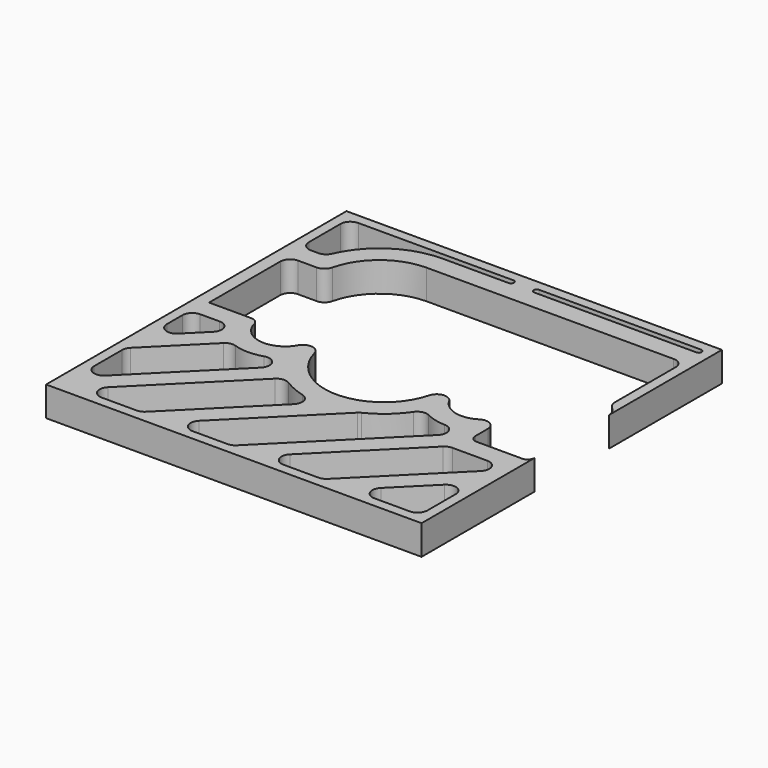
from build123d import *

# Parameters (mm, degrees)
PAD_DEPTH = 1.5


with BuildPart() as part:
    # Sketch → Pad (new body)
    with BuildSketch(Plane.XY):
        with BuildLine():
            ThreePointArc((-2.8995, -0.77), (0, -3), (2.8995, -0.77))
            ThreePointArc((3.819845, -0.65554), (3.321042, -0.402156), (2.8995, -0.77))
            ThreePointArc((3.819845, -0.65554), (4.670792, -1.309245), (5.72973, -1.135779))
            ThreePointArc((6.5, -1.556438), (6.239651, -1.117613), (5.72973, -1.135779))
            Line((6.5, -2.35), (6.5, -1.556438))
            ThreePointArc((6.5, -2.35), (6.602513, -2.597487), (6.85, -2.7))
            Line((6.85, -2.7), (9.15, -2.7))
            ThreePointArc((9.15, -2.7), (9.397487, -2.597487), (9.5, -2.35))
            Line((9.5, -2.35), (9.5, -9.5))
            Line((-9.5, -9.5), (9.5, -9.5))
            Line((-9.5, 9.5), (-9.5, -9.5))
            Line((9.5, 9.5), (-9.5, 9.5))
            Line((9.5, 2.35), (9.5, 9.5))
            ThreePointArc((9.5, 2.35), (9.434288, 2.639872), (9.25, 2.873071))
            ThreePointArc((9, 3.396143), (9.065712, 3.106271), (9.25, 2.873071))
            Line((9, 3.396143), (9, 7.2))
            ThreePointArc((9, 7.2), (8.853553, 7.553553), (8.5, 7.7))
            Line((8.5, 7.7), (-4, 7.7))
            ThreePointArc((-4, 7.7), (-5.863177, 7.051291), (-6.920581, 5.385714))
            ThreePointArc((-7.407345, 5), (-7.096816, 5.108118), (-6.920581, 5.385714))
            Line((-8.35, 5), (-7.407345, 5))
            ThreePointArc((-8.35, 5), (-8.703553, 4.853553), (-8.85, 4.5))
            Line((-8.85, 0), (-8.85, 4.5))
            Line((-8.85, 0), (-6.722884, 0))
            ThreePointArc((-6.310819, -0.322882), (-6.461135, -0.090335), (-6.722884, 0))
            ThreePointArc((-6.310819, -0.322882), (-5.1787, -1.33812), (-3.819845, -0.65554))
            ThreePointArc((-2.8995, -0.77), (-3.321042, -0.402156), (-3.819845, -0.65554))
        make_face()
        with BuildLine():
            Line((-8.146447, -7.43934), (-3.773762, -3.066655))
            ThreePointArc((-3.773762, -3.066655), (-3.70061, -2.452483), (-4.280418, -2.237119))
            ThreePointArc((-5.735884, -2.23181), (-5.008573, -2.349984), (-4.280418, -2.237119))
            ThreePointArc((-5.735884, -2.23181), (-6.008123, -2.220226), (-6.246009, -2.353109))
            Line((-8.853553, -4.960654), (-6.246009, -2.353109))
            ThreePointArc((-8.853553, -4.960654), (-8.96194, -5.122866), (-9, -5.314207))
            Line((-9, -5.314207), (-9, -7.085786))
            ThreePointArc((-9, -7.085786), (-8.691342, -7.547726), (-8.146447, -7.43934))
        make_face(mode=Mode.SUBTRACT)
        with BuildLine():
            Line((-7.43934, -8.146447), (-2.748865, -3.455972))
            ThreePointArc((-2.129166, -3.386245), (-2.451218, -3.312661), (-2.748865, -3.455972))
            ThreePointArc((-2.129166, -3.386245), (-1.598864, -3.666556), (-1.032607, -3.864417))
            ThreePointArc((-0.80813, -4.701023), (-0.678765, -4.217893), (-1.032607, -3.864417))
            Line((-4.96066, -8.853553), (-0.80813, -4.701023))
            ThreePointArc((-5.314214, -9), (-5.122872, -8.96194), (-4.96066, -8.853553))
            Line((-5.314214, -9), (-7.085786, -9))
            ThreePointArc((-7.43934, -8.146447), (-7.547726, -8.691342), (-7.085786, -9))
        make_face(mode=Mode.SUBTRACT)
        with BuildLine():
            Line((-7.51422, -1), (-8.5, -1))
            ThreePointArc((-8.5, -1), (-8.853553, -1.146447), (-9, -1.5))
            Line((-9, -1.5), (-9, -2.48578))
            ThreePointArc((-9, -2.48578), (-8.691342, -2.94772), (-8.146447, -2.839334))
            Line((-8.146447, -2.839334), (-7.160666, -1.853553))
            ThreePointArc((-7.160666, -1.853553), (-7.05228, -1.308658), (-7.51422, -1))
        make_face(mode=Mode.SUBTRACT)
        with BuildLine():
            ThreePointArc((1.748237, -3.597731), (2.611317, -3.03002), (3.300222, -2.260206))
            ThreePointArc((3.938583, -2.096639), (3.588644, -2.058379), (3.300222, -2.260206))
            ThreePointArc((3.938583, -2.096639), (4.428947, -2.279561), (4.947635, -2.349417))
            ThreePointArc((5.290047, -3.202846), (5.400537, -2.66311), (4.947635, -2.349417))
            Line((5.290047, -3.202846), (-0.36066, -8.853553))
            ThreePointArc((-0.714214, -9), (-0.522872, -8.96194), (-0.36066, -8.853553))
            Line((-0.714214, -9), (-2.485786, -9))
            ThreePointArc((-2.83934, -8.146447), (-2.947726, -8.691342), (-2.485786, -9))
            Line((-2.83934, -8.146447), (1.613213, -3.693894))
            ThreePointArc((1.748237, -3.597731), (1.676712, -3.640178), (1.613213, -3.693894))
        make_face(mode=Mode.SUBTRACT)
        with BuildLine():
            ThreePointArc((8.5, -9), (8.853553, -8.853553), (9, -8.5))
            Line((9, -6.714214), (9, -8.5))
            ThreePointArc((9, -6.714214), (8.691342, -6.252274), (8.146447, -6.36066))
            Line((6.36066, -8.146447), (8.146447, -6.36066))
            ThreePointArc((6.36066, -8.146447), (6.252274, -8.691342), (6.714214, -9))
            Line((6.714214, -9), (8.5, -9))
        make_face(mode=Mode.SUBTRACT)
        with BuildLine():
            Line((8.185786, -3.7), (6.414214, -3.7))
            ThreePointArc((6.414214, -3.7), (6.222872, -3.73806), (6.06066, -3.846447))
            Line((6.06066, -3.846447), (1.76066, -8.146447))
            ThreePointArc((1.76066, -8.146447), (1.652274, -8.691342), (2.114214, -9))
            Line((3.885786, -9), (2.114214, -9))
            ThreePointArc((3.885786, -9), (4.077128, -8.96194), (4.23934, -8.853553))
            Line((4.23934, -8.853553), (8.53934, -4.553553))
            ThreePointArc((8.53934, -4.553553), (8.647726, -4.008658), (8.185786, -3.7))
        make_face(mode=Mode.SUBTRACT)
        with BuildLine():
            Line((-9, 8.5), (-9, 6.5))
            ThreePointArc((-9, 6.5), (-8.853553, 6.146447), (-8.5, 6))
            Line((-8.5, 6), (-8.124318, 6))
            ThreePointArc((-8.124318, 6), (-7.850457, 6.08167), (-7.666061, 6.3))
            ThreePointArc((-4, 8.7), (-6.19089, 8.04664), (-7.666061, 6.3))
            Line((-4, 8.7), (-0.65, 8.7))
            ThreePointArc((-0.65, 8.7), (-0.5, 8.85), (-0.65, 9))
            Line((-8.5, 9), (-0.65, 9))
            ThreePointArc((-8.5, 9), (-8.853553, 8.853553), (-9, 8.5))
        make_face(mode=Mode.SUBTRACT)
        with BuildLine():
            ThreePointArc((8.85, 8.7), (9, 8.85), (8.85, 9))
            Line((0.65, 9), (8.85, 9))
            ThreePointArc((0.65, 9), (0.5, 8.85), (0.65, 8.7))
            Line((0.65, 8.7), (8.85, 8.7))
        make_face(mode=Mode.SUBTRACT)
    extrude(amount=PAD_DEPTH)


solid = part.part
